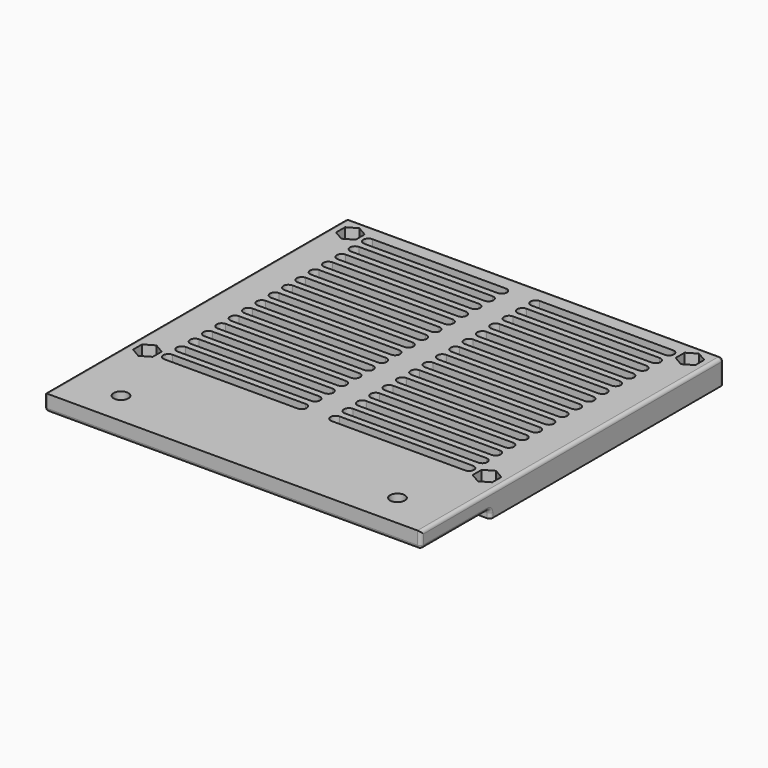
from build123d import *

# Parameters (mm, degrees)
SKETCH001_W          = 112.91
SKETCH001_H          = 87.54
PAD_DEPTH            = 2.2
SKETCH002_W          = 112.91
SKETCH002_H          = 87.54
PAD001_DEPTH         = 2.2
SKETCH003_W          = 112.91
SKETCH003_H          = 87.54
SKETCH003_R          = 1.75
PAD002_DEPTH         = 1.22
SKETCH004_W          = 112.91
SKETCH004_H          = 87.54
PAD003_DEPTH         = 1.7
SKETCH005_W          = 112.91
SKETCH005_H          = 26
SKETCH005_R          = 2.2
PAD004_DEPTH         = 4.88
FILLET_R             = 1
BODY_PLACEMENT_ANGLE = 180


with BuildPart() as part:
    # Sketch001 → Pad (new body)
    with BuildSketch(Plane.XY):
        Rectangle(SKETCH001_W, SKETCH001_H)
        Polygon((-47.980514, 36.35), (-47.980514, 39.75), (-50.925, 41.45), (-53.869486, 39.75), (-53.869486, 36.35), (-50.925, 34.65), align=None, mode=Mode.SUBTRACT)
        Polygon((47.980514, 36.35), (47.980514, 39.75), (50.925, 41.45), (53.869486, 39.75), (53.869486, 36.35), (50.925, 34.65), align=None, mode=Mode.SUBTRACT)
        Polygon((-50.925, -34.65), (-47.980514, -36.35), (-47.980514, -39.75), (-50.925, -41.45), (-53.869486, -39.75), (-53.869486, -36.35), align=None, mode=Mode.SUBTRACT)
        Polygon((47.980514, -36.35), (47.980514, -39.75), (50.925, -41.45), (53.869486, -39.75), (53.869486, -36.35), (50.925, -34.65), align=None, mode=Mode.SUBTRACT)
        with BuildLine():
            Line((-45.078333, 39), (-5.078333, 39))
            ThreePointArc((-5.078333, 36), (-3.578333, 37.5), (-5.078333, 39))
            Line((-5.078333, 36), (-45.078333, 36))
            ThreePointArc((-45.078333, 39), (-46.578333, 37.5), (-45.078333, 36))
        make_face(mode=Mode.SUBTRACT)
        with BuildLine():
            Line((5.078333, 39), (45.078333, 39))
            ThreePointArc((45.078333, 36), (46.578333, 37.5), (45.078333, 39))
            Line((45.078333, 36), (5.078333, 36))
            ThreePointArc((5.078333, 39), (3.578333, 37.5), (5.078333, 36))
        make_face(mode=Mode.SUBTRACT)
        with BuildLine():
            Line((-45.078333, 34), (-5.078333, 34))
            ThreePointArc((-5.078333, 31), (-3.578333, 32.5), (-5.078333, 34))
            Line((-5.078333, 31), (-45.078333, 31))
            ThreePointArc((-45.078333, 34), (-46.578333, 32.5), (-45.078333, 31))
        make_face(mode=Mode.SUBTRACT)
        with BuildLine():
            Line((5.078333, 34), (45.078333, 34))
            ThreePointArc((45.078333, 31), (46.578333, 32.5), (45.078333, 34))
            Line((45.078333, 31), (5.078333, 31))
            ThreePointArc((5.078333, 34), (3.578333, 32.5), (5.078333, 31))
        make_face(mode=Mode.SUBTRACT)
        with BuildLine():
            Line((-45.078333, 29), (-5.078333, 29))
            ThreePointArc((-5.078333, 26), (-3.578333, 27.5), (-5.078333, 29))
            Line((-5.078333, 26), (-45.078333, 26))
            ThreePointArc((-45.078333, 29), (-46.578333, 27.5), (-45.078333, 26))
        make_face(mode=Mode.SUBTRACT)
        with BuildLine():
            Line((5.078333, 29), (45.078333, 29))
            ThreePointArc((45.078333, 26), (46.578333, 27.5), (45.078333, 29))
            Line((45.078333, 26), (5.078333, 26))
            ThreePointArc((5.078333, 29), (3.578333, 27.5), (5.078333, 26))
        make_face(mode=Mode.SUBTRACT)
        with BuildLine():
            Line((-45.078333, 24), (-5.078333, 24))
            ThreePointArc((-5.078333, 21), (-3.578333, 22.5), (-5.078333, 24))
            Line((-5.078333, 21), (-45.078333, 21))
            ThreePointArc((-45.078333, 24), (-46.578333, 22.5), (-45.078333, 21))
        make_face(mode=Mode.SUBTRACT)
        with BuildLine():
            Line((5.078333, 24), (45.078333, 24))
            ThreePointArc((45.078333, 21), (46.578333, 22.5), (45.078333, 24))
            Line((45.078333, 21), (5.078333, 21))
            ThreePointArc((5.078333, 24), (3.578333, 22.5), (5.078333, 21))
        make_face(mode=Mode.SUBTRACT)
        with BuildLine():
            Line((-45.078333, 19), (-5.078333, 19))
            ThreePointArc((-5.078333, 16), (-3.578333, 17.5), (-5.078333, 19))
            Line((-5.078333, 16), (-45.078333, 16))
            ThreePointArc((-45.078333, 19), (-46.578333, 17.5), (-45.078333, 16))
        make_face(mode=Mode.SUBTRACT)
        with BuildLine():
            Line((5.078333, 19), (45.078333, 19))
            ThreePointArc((45.078333, 16), (46.578333, 17.5), (45.078333, 19))
            Line((45.078333, 16), (5.078333, 16))
            ThreePointArc((5.078333, 19), (3.578333, 17.5), (5.078333, 16))
        make_face(mode=Mode.SUBTRACT)
        with BuildLine():
            Line((-45.078333, 14), (-5.078333, 14))
            ThreePointArc((-5.078333, 11), (-3.578333, 12.5), (-5.078333, 14))
            Line((-5.078333, 11), (-45.078333, 11))
            ThreePointArc((-45.078333, 14), (-46.578333, 12.5), (-45.078333, 11))
        make_face(mode=Mode.SUBTRACT)
        with BuildLine():
            Line((5.078333, 14), (45.078333, 14))
            ThreePointArc((45.078333, 11), (46.578333, 12.5), (45.078333, 14))
            Line((45.078333, 11), (5.078333, 11))
            ThreePointArc((5.078333, 14), (3.578333, 12.5), (5.078333, 11))
        make_face(mode=Mode.SUBTRACT)
        with BuildLine():
            Line((-45.078333, 9), (-5.078333, 9))
            ThreePointArc((-5.078333, 6), (-3.578333, 7.5), (-5.078333, 9))
            Line((-5.078333, 6), (-45.078333, 6))
            ThreePointArc((-45.078333, 9), (-46.578333, 7.5), (-45.078333, 6))
        make_face(mode=Mode.SUBTRACT)
        with BuildLine():
            Line((5.078333, 9), (45.078333, 9))
            ThreePointArc((45.078333, 6), (46.578333, 7.5), (45.078333, 9))
            Line((45.078333, 6), (5.078333, 6))
            ThreePointArc((5.078333, 9), (3.578333, 7.5), (5.078333, 6))
        make_face(mode=Mode.SUBTRACT)
        with BuildLine():
            Line((-45.078333, 4), (-5.078333, 4))
            ThreePointArc((-5.078333, 1), (-3.578333, 2.5), (-5.078333, 4))
            Line((-5.078333, 1), (-45.078333, 1))
            ThreePointArc((-45.078333, 4), (-46.578333, 2.5), (-45.078333, 1))
        make_face(mode=Mode.SUBTRACT)
        with BuildLine():
            Line((5.078333, 4), (45.078333, 4))
            ThreePointArc((45.078333, 1), (46.578333, 2.5), (45.078333, 4))
            Line((45.078333, 1), (5.078333, 1))
            ThreePointArc((5.078333, 4), (3.578333, 2.5), (5.078333, 1))
        make_face(mode=Mode.SUBTRACT)
        with BuildLine():
            Line((-45.078333, -1), (-5.078333, -1))
            ThreePointArc((-5.078333, -4), (-3.578333, -2.5), (-5.078333, -1))
            Line((-5.078333, -4), (-45.078333, -4))
            ThreePointArc((-45.078333, -1), (-46.578333, -2.5), (-45.078333, -4))
        make_face(mode=Mode.SUBTRACT)
        with BuildLine():
            Line((5.078333, -1), (45.078333, -1))
            ThreePointArc((45.078333, -4), (46.578333, -2.5), (45.078333, -1))
            Line((45.078333, -4), (5.078333, -4))
            ThreePointArc((5.078333, -1), (3.578333, -2.5), (5.078333, -4))
        make_face(mode=Mode.SUBTRACT)
        with BuildLine():
            Line((-45.078333, -6), (-5.078333, -6))
            ThreePointArc((-5.078333, -9), (-3.578333, -7.5), (-5.078333, -6))
            Line((-5.078333, -9), (-45.078333, -9))
            ThreePointArc((-45.078333, -6), (-46.578333, -7.5), (-45.078333, -9))
        make_face(mode=Mode.SUBTRACT)
        with BuildLine():
            Line((5.078333, -6), (45.078333, -6))
            ThreePointArc((45.078333, -9), (46.578333, -7.5), (45.078333, -6))
            Line((45.078333, -9), (5.078333, -9))
            ThreePointArc((5.078333, -6), (3.578333, -7.5), (5.078333, -9))
        make_face(mode=Mode.SUBTRACT)
        with BuildLine():
            Line((-45.078333, -11), (-5.078333, -11))
            ThreePointArc((-5.078333, -14), (-3.578333, -12.5), (-5.078333, -11))
            Line((-5.078333, -14), (-45.078333, -14))
            ThreePointArc((-45.078333, -11), (-46.578333, -12.5), (-45.078333, -14))
        make_face(mode=Mode.SUBTRACT)
        with BuildLine():
            Line((5.078333, -11), (45.078333, -11))
            ThreePointArc((45.078333, -14), (46.578333, -12.5), (45.078333, -11))
            Line((45.078333, -14), (5.078333, -14))
            ThreePointArc((5.078333, -11), (3.578333, -12.5), (5.078333, -14))
        make_face(mode=Mode.SUBTRACT)
        with BuildLine():
            Line((-45.078333, -16), (-5.078333, -16))
            ThreePointArc((-5.078333, -19), (-3.578333, -17.5), (-5.078333, -16))
            Line((-5.078333, -19), (-45.078333, -19))
            ThreePointArc((-45.078333, -16), (-46.578333, -17.5), (-45.078333, -19))
        make_face(mode=Mode.SUBTRACT)
        with BuildLine():
            Line((5.078333, -16), (45.078333, -16))
            ThreePointArc((45.078333, -19), (46.578333, -17.5), (45.078333, -16))
            Line((45.078333, -19), (5.078333, -19))
            ThreePointArc((5.078333, -16), (3.578333, -17.5), (5.078333, -19))
        make_face(mode=Mode.SUBTRACT)
        with BuildLine():
            Line((-45.078333, -21), (-5.078333, -21))
            ThreePointArc((-5.078333, -24), (-3.578333, -22.5), (-5.078333, -21))
            Line((-5.078333, -24), (-45.078333, -24))
            ThreePointArc((-45.078333, -21), (-46.578333, -22.5), (-45.078333, -24))
        make_face(mode=Mode.SUBTRACT)
        with BuildLine():
            Line((5.078333, -21), (45.078333, -21))
            ThreePointArc((45.078333, -24), (46.578333, -22.5), (45.078333, -21))
            Line((45.078333, -24), (5.078333, -24))
            ThreePointArc((5.078333, -21), (3.578333, -22.5), (5.078333, -24))
        make_face(mode=Mode.SUBTRACT)
        with BuildLine():
            Line((-45.078333, -26), (-5.078333, -26))
            ThreePointArc((-5.078333, -29), (-3.578333, -27.5), (-5.078333, -26))
            Line((-5.078333, -29), (-45.078333, -29))
            ThreePointArc((-45.078333, -26), (-46.578333, -27.5), (-45.078333, -29))
        make_face(mode=Mode.SUBTRACT)
        with BuildLine():
            Line((5.078333, -26), (45.078333, -26))
            ThreePointArc((45.078333, -29), (46.578333, -27.5), (45.078333, -26))
            Line((45.078333, -29), (5.078333, -29))
            ThreePointArc((5.078333, -26), (3.578333, -27.5), (5.078333, -29))
        make_face(mode=Mode.SUBTRACT)
        with BuildLine():
            Line((-45.078333, -31), (-5.078333, -31))
            ThreePointArc((-5.078333, -34), (-3.578333, -32.5), (-5.078333, -31))
            Line((-5.078333, -34), (-45.078333, -34))
            ThreePointArc((-45.078333, -31), (-46.578333, -32.5), (-45.078333, -34))
        make_face(mode=Mode.SUBTRACT)
        with BuildLine():
            Line((5.078333, -31), (45.078333, -31))
            ThreePointArc((45.078333, -34), (46.578333, -32.5), (45.078333, -31))
            Line((45.078333, -34), (5.078333, -34))
            ThreePointArc((5.078333, -31), (3.578333, -32.5), (5.078333, -34))
        make_face(mode=Mode.SUBTRACT)
        with BuildLine():
            Line((-45.078333, -36), (-5.078333, -36))
            ThreePointArc((-5.078333, -39), (-3.578333, -37.5), (-5.078333, -36))
            Line((-5.078333, -39), (-45.078333, -39))
            ThreePointArc((-45.078333, -36), (-46.578333, -37.5), (-45.078333, -39))
        make_face(mode=Mode.SUBTRACT)
        with BuildLine():
            Line((5.078333, -36), (45.078333, -36))
            ThreePointArc((45.078333, -39), (46.578333, -37.5), (45.078333, -36))
            Line((45.078333, -39), (5.078333, -39))
            ThreePointArc((5.078333, -36), (3.578333, -37.5), (5.078333, -39))
        make_face(mode=Mode.SUBTRACT)
    extrude(amount=PAD_DEPTH)

    # Sketch002 → Pad001 (join)
    with BuildSketch(Plane.XY.offset(2.2)):
        Rectangle(SKETCH002_W, SKETCH002_H)
        Polygon((-47.980514, 36.35), (-47.980514, 39.75), (-50.925, 41.45), (-53.869486, 39.75), (-53.869486, 36.35), (-50.925, 34.65), align=None, mode=Mode.SUBTRACT)
        Polygon((47.980514, 36.35), (47.980514, 39.75), (50.925, 41.45), (53.869486, 39.75), (53.869486, 36.35), (50.925, 34.65), align=None, mode=Mode.SUBTRACT)
        Polygon((-50.925, -34.65), (-47.980514, -36.35), (-47.980514, -39.75), (-50.925, -41.45), (-53.869486, -39.75), (-53.869486, -36.35), align=None, mode=Mode.SUBTRACT)
        Polygon((47.980514, -36.35), (47.980514, -39.75), (50.925, -41.45), (53.869486, -39.75), (53.869486, -36.35), (50.925, -34.65), align=None, mode=Mode.SUBTRACT)
        with BuildLine():
            Line((-47.115, 42.55), (47.115, 42.55))
            Line((47.115, 42.55), (47.115, 38.05))
            ThreePointArc((47.115, 38.05), (48.230923, 35.355923), (50.925, 34.24))
            Line((55.235, 34.24), (50.925, 34.24))
            Line((55.235, -34.24), (55.235, 34.24))
            Line((55.235, -34.24), (50.925, -34.24))
            ThreePointArc((50.925, -34.24), (48.230923, -35.355923), (47.115, -38.05))
            Line((47.115, -42.55), (47.115, -38.05))
            Line((-47.115, -42.55), (47.115, -42.55))
            Line((-47.115, -42.55), (-47.115, -38.05))
            ThreePointArc((-47.115, -38.05), (-48.230923, -35.355923), (-50.925, -34.24))
            Line((-55.235, -34.24), (-50.925, -34.24))
            Line((-55.235, 34.24), (-55.235, -34.24))
            Line((-55.235, 34.24), (-50.925, 34.24))
            ThreePointArc((-50.925, 34.24), (-48.230923, 35.355923), (-47.115, 38.05))
            Line((-47.115, 42.55), (-47.115, 38.05))
        make_face(mode=Mode.SUBTRACT)
    extrude(amount=PAD001_DEPTH)

    # Sketch003 → Pad002 (join)
    with BuildSketch(Plane.XY.offset(4.4)):
        Rectangle(SKETCH003_W, SKETCH003_H)
        with Locations((-50.925, 38.05)):
            Circle(SKETCH003_R, mode=Mode.SUBTRACT)
        with Locations((50.925, 38.05)):
            Circle(SKETCH003_R, mode=Mode.SUBTRACT)
        with Locations((-50.925, -38.05)):
            Circle(SKETCH003_R, mode=Mode.SUBTRACT)
        with Locations((50.925, -38.05)):
            Circle(SKETCH003_R, mode=Mode.SUBTRACT)
        with BuildLine():
            Line((-47.115, 42.55), (47.115, 42.55))
            Line((47.115, 42.55), (47.115, 38.05))
            ThreePointArc((47.115, 38.05), (48.230923, 35.355923), (50.925, 34.24))
            Line((55.235, 34.24), (50.925, 34.24))
            Line((55.235, -34.24), (55.235, 34.24))
            Line((55.235, -34.24), (50.925, -34.24))
            ThreePointArc((50.925, -34.24), (48.230923, -35.355923), (47.115, -38.05))
            Line((47.115, -42.55), (47.115, -38.05))
            Line((-47.115, -42.55), (47.115, -42.55))
            Line((-47.115, -42.55), (-47.115, -38.05))
            ThreePointArc((-47.115, -38.05), (-48.230923, -35.355923), (-50.925, -34.24))
            Line((-55.235, -34.24), (-50.925, -34.24))
            Line((-55.235, 34.24), (-55.235, -34.24))
            Line((-55.235, 34.24), (-50.925, 34.24))
            ThreePointArc((-50.925, 34.24), (-48.230923, 35.355923), (-47.115, 38.05))
            Line((-47.115, 42.55), (-47.115, 38.05))
        make_face(mode=Mode.SUBTRACT)
    extrude(amount=PAD002_DEPTH)

    # Sketch004 → Pad003 (join)
    with BuildSketch(Plane.XY.offset(5.62)):
        Rectangle(SKETCH004_W, SKETCH004_H)
        Polygon((-55.235, 42.55), (-47.115, 42.55), (47.115, 42.55), (55.235, 42.55), (55.235, 34.24), (55.235, -34.24), (55.235, -42.55), (47.115, -42.55), (-47.115, -42.55), (-55.235, -42.55), (-55.235, -34.24), (-55.235, 34.24), align=None, mode=Mode.SUBTRACT)
    extrude(amount=PAD003_DEPTH)

    # Sketch005 → Pad004 (join)
    with BuildSketch(Plane.XY):
        with Locations((0, 56.77)):
            Rectangle(SKETCH005_W, SKETCH005_H)
        with Locations((-41.455, 59.77)):
            Circle(SKETCH005_R, mode=Mode.SUBTRACT)
        with Locations((41.455, 59.77)):
            Circle(SKETCH005_R, mode=Mode.SUBTRACT)
    extrude(amount=PAD004_DEPTH)

    # Fillet
    fillet_edges = [part.edges().sort_by_distance(p)[0] for p in [
        (-56.455, 13, 0),
        (-56.455, 56.77, 4.88),
        (-56.455, 43.77, 6.1),
        (-56.455, -43.77, 3.66),
        (0, -43.77, 0),
        (56.455, -43.77, 3.66),
        (-56.455, 69.77, 2.44),
        (0, 69.77, 4.88),
        (0, 43.77, 4.88),
        (56.455, 43.77, 6.1),
        (56.455, 56.77, 4.88),
        (56.455, 13, 0),
        (56.455, 69.77, 2.44),
        (0, -42.55, 2.2),
        (55.235, 0, 2.2),
        (-55.235, 0, 2.2),
        (0, 42.55, 2.2),
    ]]
    fillet(fillet_edges, radius=FILLET_R)


with BuildPart() as part_1:
    # Body placement: moved
    add(part.part.moved(Location((0, 0, 38.92))).rotate(Axis((0, 0, 38.92), (1, 0, 0)), BODY_PLACEMENT_ANGLE))


solid = part_1.part
